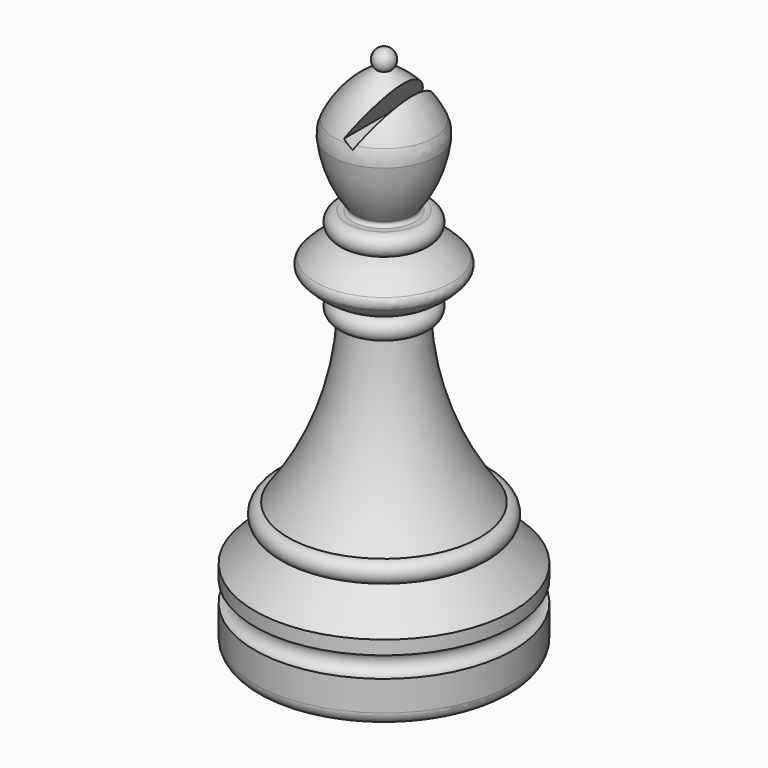
from build123d import *

# Parameters (mm, degrees)
F2_R          = 2.2225
F5_R          = 5.08
F6_R          = 0.508
F8_W          = 2.032
F8_H          = 25.4
F9_DEPTH      = 2.54
F9_DEPTH_BACK = 6.858
F10_SCALE     = 0.87
F11_R         = 1.27


with BuildPart() as f1:
    # F0 (on Front) → F1 (revolve)
    with BuildSketch(Plane.XZ):
        with BuildLine():
            Line((16.51, 0), (0, 0))
            Line((0, 0), (0, -19.05))
            Line((0, -19.05), (22.225, -19.05))
            Line((22.225, -19.05), (22.225, -11.6586))
            ThreePointArc((22.225, -11.6586), (20.447, -9.8806), (22.225, -8.1026))
            Line((22.225, -8.1026), (22.225, -5.715))
            Line((22.225, -5.715), (16.51, 0))
        make_face()
    revolve(axis=Axis((0, 0, -9.525), (0, 0, 1)))

    # F2
    f2_edges = [f1.edges().sort_by_distance(p)[0] for p in [
        (-22.225, 0, -19.05),
    ]]
    fillet(f2_edges, radius=F2_R)

    # F3 (on Front) → F4 (revolve)
    with BuildSketch(Plane.XZ):
        with BuildLine():
            ThreePointArc((1.27, 69.3676592107), (1.6391647146, 71.3007837384), (0, 72.39))
            Line((0, 72.39), (0, 0))
            Line((0, 0), (16.51, 0))
            ThreePointArc((16.51, 0), (18.288, 1.778), (16.51, 3.556))
            ThreePointArc((16.51, 3.556), (9.3366405457, 16.778306426), (6.35, 31.5216592107))
            ThreePointArc((6.35, 31.5216592107), (8.128, 33.2996592107), (6.35, 35.0776592107))
            ThreePointArc((6.35, 35.0776592107), (9.7489832852, 36.8956814971), (12.446, 39.6496592107))
            ThreePointArc((12.446, 39.6496592107), (9.7489832852, 42.4036369243), (6.35, 44.2216592107))
            ThreePointArc((6.35, 44.2216592107), (8.128, 45.9996592107), (6.35, 47.7776592107))
            Line((6.35, 47.7776592107), (4.318, 47.7776592107))
            ThreePointArc((4.318, 47.7776592107), (7.7821876852, 53.5930558225), (9.144, 60.2236592107))
            ThreePointArc((9.144, 60.2236592107), (6.0064546496, 65.4840784923), (1.27, 69.3676592107))
        make_face()
    revolve(axis=Axis((0, 0, 36.195), (0, 0, -1)))

    # F5
    f5_edges = [f1.edges().sort_by_distance(p)[0] for p in [
        (-9.144, 0, 60.223659),
    ]]
    fillet(f5_edges, radius=F5_R)

    # F6
    f6_edges = [f1.edges().sort_by_distance(p)[0] for p in [
        (-4.318, 0, 47.777659),
    ]]
    fillet(f6_edges, radius=F6_R)

    # F8 (on line) → F9 (cut, two sides)
    with BuildSketch(Plane(origin=(30.2009668014, 0, 52.3096089378), x_dir=(0.8660254038, 0, -0.5), z_dir=(-0.5, 0, -0.8660254038))) as f9_sk:
        with Locations((-30.1118296053, 0)):
            Rectangle(F8_W, F8_H)
    extrude(amount=-F9_DEPTH, mode=Mode.SUBTRACT)
    extrude(f9_sk.sketch, amount=F9_DEPTH_BACK, mode=Mode.SUBTRACT)


with BuildPart() as f1_1:
    # F10: moved
    add(f1.part.scale(F10_SCALE))

    # F11
    f11_edges = [f1_1.edges().sort_by_distance(p)[0] for p in [
        (-10.82802, 0, 34.495204),
    ]]
    fillet(f11_edges, radius=F11_R)


solid = f1_1.part
